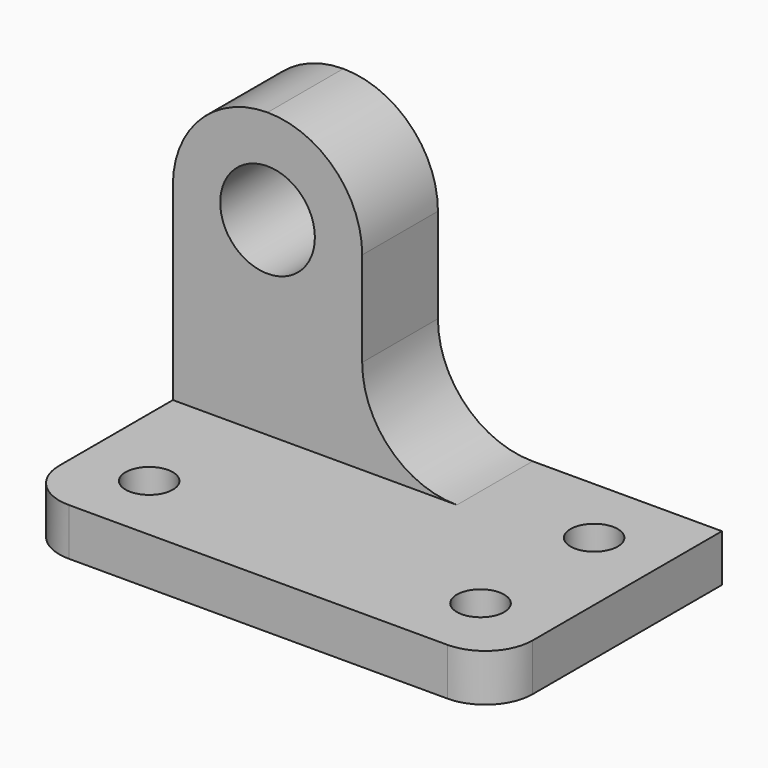
from build123d import *

# Parameters (mm, degrees)
F0_W     = 63.5
F0_H     = 44.45
F1_DEPTH = 38.1
F2_W     = 63.5
F2_H     = 38.1
F3_DEPTH = 25.4
F4_R     = 6.35
F5_DEPTH = 25.4
F6_R     = 3.175
F7_DEPTH = 25.4


with BuildPart() as f1:
    # F0 (on Front) → F1 (new body)
    with BuildSketch(Plane.XZ):
        with Locations((31.75, 22.225)):
            Rectangle(F0_W, F0_H)
    extrude(amount=F1_DEPTH)

    # F2 (on face) → F3 (cut)
    with BuildSketch(Plane.XZ.offset(38.1)):
        with Locations((31.75, 25.4)):
            Rectangle(F2_W, F2_H)
    extrude(amount=-F3_DEPTH, mode=Mode.SUBTRACT)

    # F4 (on face) → F5 (cut)
    with BuildSketch(Plane.XZ.offset(12.7)):
        with BuildLine():
            ThreePointArc((25.4, 19.05), (29.1197438789, 10.0697438789), (38.1, 6.35))
            Line((38.1, 6.35), (63.5, 6.35))
            Line((63.5, 6.35), (63.5, 44.45))
            Line((63.5, 44.45), (12.7, 44.45))
            ThreePointArc((12.7, 44.45), (21.6802561211, 40.7302561211), (25.4, 31.75))
            Line((25.4, 31.75), (25.4, 19.05))
        make_face()
        with Locations((12.7, 31.75)):
            Circle(F4_R)
        with BuildLine():
            Line((0, 44.45), (0, 31.75))
            ThreePointArc((0, 31.75), (3.7197438789, 40.7302561211), (12.7, 44.45))
            Line((12.7, 44.45), (0, 44.45))
        make_face()
    extrude(amount=-F5_DEPTH, mode=Mode.SUBTRACT)

    # F6 (on face) → F7 (cut)
    with BuildSketch(Plane.XY.offset(6.35)):
        with BuildLine():
            ThreePointArc((6.35, -38.1), (1.8598719395, -36.2401280605), (0, -31.75))
            Line((0, -31.75), (0, -38.1))
            Line((0, -38.1), (6.35, -38.1))
        make_face()
        with Locations((9.525, -28.575)):
            Circle(F6_R)
        with Locations((53.975, -28.575)):
            Circle(F6_R)
        with BuildLine():
            ThreePointArc((63.5, -31.75), (61.6401280605, -36.2401280605), (57.15, -38.1))
            Line((57.15, -38.1), (63.5, -38.1))
            Line((63.5, -38.1), (63.5, -31.75))
        make_face()
        with Locations((53.975, -9.525)):
            Circle(F6_R)
    extrude(amount=-F7_DEPTH, mode=Mode.SUBTRACT)


solid = f1.part
